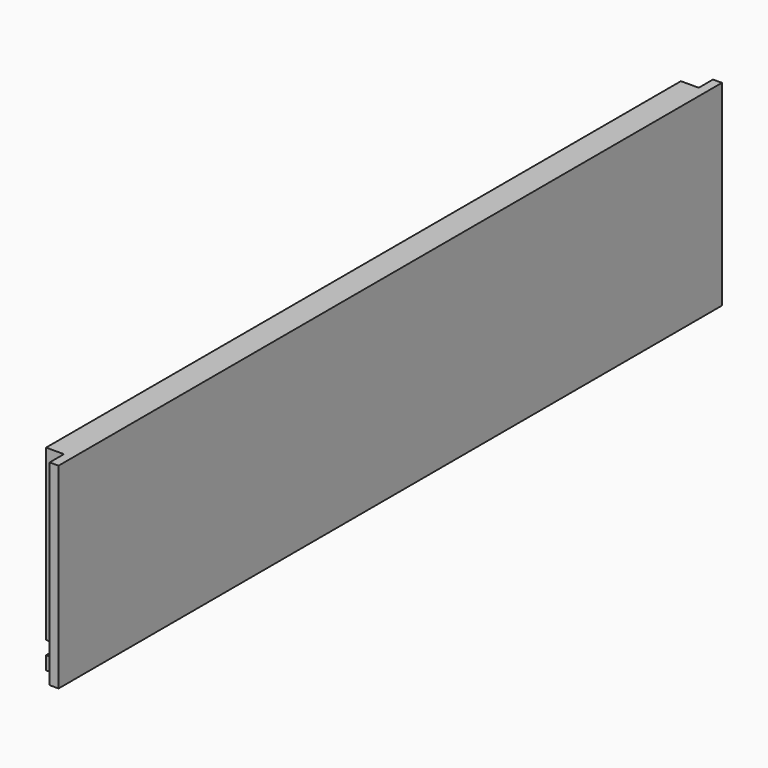
from build123d import *

# Parameters (mm, degrees)
SKETCH066_W             = 372
SKETCH066_H             = 88
PAD024_DEPTH            = 12
SKETCH067_W             = 8
SKETCH067_H             = 88
POCKET040_DEPTH         = 8
SKETCH068_W             = 364
SKETCH068_H             = 6
POCKET041_DEPTH         = 6
BODY023_ROLL_ANGLE      = 90
BODY023_PLACEMENT_ANGLE = 90


with BuildPart() as part:
    # Sketch066 → Pad024 (new body)
    with BuildSketch(Plane.XY):
        with Locations((0, 44)):
            Rectangle(SKETCH066_W, SKETCH066_H)
    extrude(amount=PAD024_DEPTH)

    # Sketch067 (on Face5 of Pad024) → Pocket040 (cut)
    with BuildSketch(Plane(origin=(0, 0, 0), x_dir=(1, 0, 0), z_dir=(0, 0, -1))):
        with Locations((-182, -44)):
            Rectangle(SKETCH067_W, SKETCH067_H)
    pocket040 = extrude(amount=-POCKET040_DEPTH, mode=Mode.SUBTRACT)

    # Mirrored015: Pocket040 across Sketch067 V_Axis
    add(pocket040.mirror(Plane(origin=(0, 0, 0), x_dir=(0, 0, -1), z_dir=(1, 0, 0))), mode=Mode.SUBTRACT)

    # Sketch068 (on Face3 of Mirrored015) → Pocket041 (cut)
    with BuildSketch(Plane(origin=(0, 0, 0), x_dir=(1, 0, 0), z_dir=(0, 0, -1))):
        with Locations((0, -9)):
            Rectangle(SKETCH068_W, SKETCH068_H)
    extrude(amount=-POCKET041_DEPTH, mode=Mode.SUBTRACT)


with BuildPart() as part_1:
    # Body023 roll: moved
    add(part.part.rotate(Axis((0, 0, 0), (1, 0, 0)), BODY023_ROLL_ANGLE))


with BuildPart() as part_2:
    # Body023 placement: moved
    add(part_1.part.moved(Location((220.3, 178, 0))).rotate(Axis((220.3, 178, 0), (0, 0, 1)), BODY023_PLACEMENT_ANGLE))


solid = part_2.part
